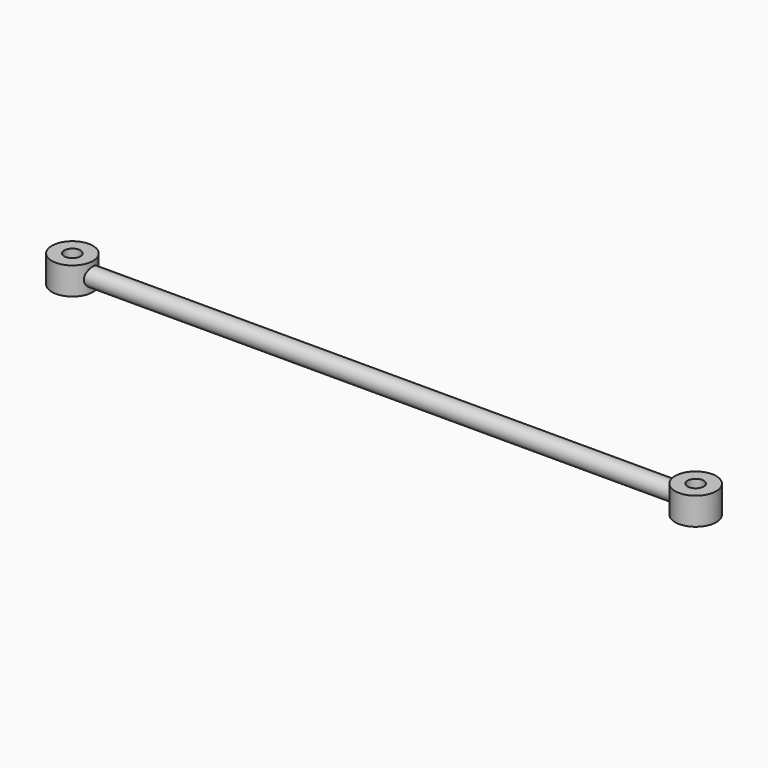
from build123d import *

# Parameters (mm, degrees)
F0_R     = 15
F0_R_2   = 5.9145568826
F1_DEPTH = 10
F0_R_3   = 5.8825208245
F2_R     = 6.5
F3_DEPTH = 215.6834155321


with BuildPart() as f1:
    # F0 (on Top) → F1 (new body, symmetric)
    with BuildSketch(Plane.XY):
        with Locations((-227.5, 0)):
            Circle(F0_R)
        with Locations((-227.5, 0)):
            Circle(F0_R_2, mode=Mode.SUBTRACT)
    extrude(amount=F1_DEPTH, both=True)



with BuildPart() as f1b:
    # F0 (on Top) → F1, piece 2 (new body, symmetric)
    with BuildSketch(Plane.XY):
        with Locations((227.5, 0)):
            Circle(F0_R)
        with Locations((227.5, 0)):
            Circle(F0_R_3, mode=Mode.SUBTRACT)
    extrude(amount=F1_DEPTH, both=True)


with BuildPart() as f1_1:
    add(f1.part)

    add(f1b.part)  # F3 merges F1b
    # F2 (on Right) → F3 (join, symmetric)
    with BuildSketch(Plane.YZ):
        Circle(F2_R)
    extrude(amount=F3_DEPTH, both=True)


solid = f1_1.part
